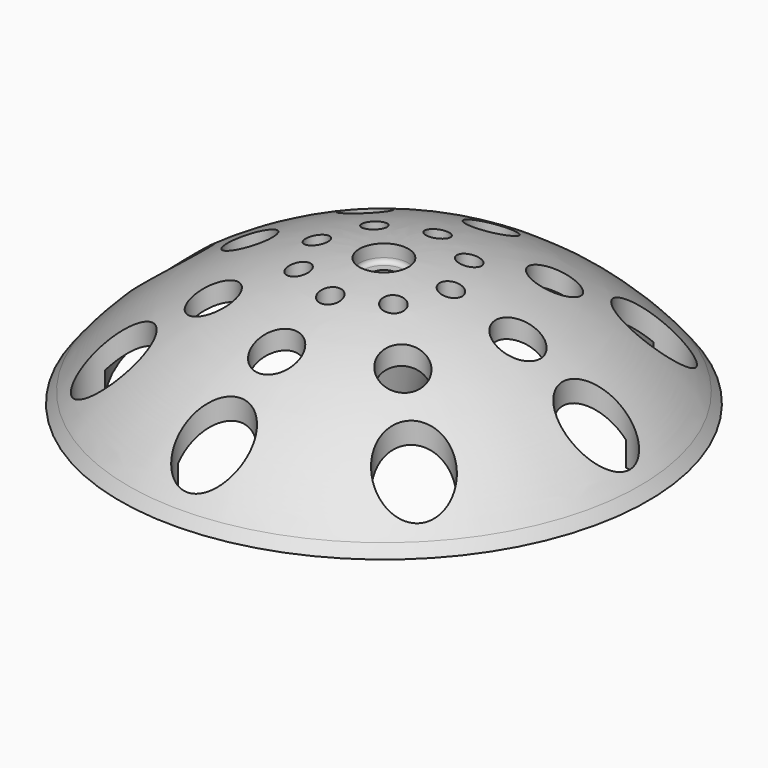
from build123d import *

# Parameters (mm, degrees)
F2_R     = 7.5
F2_R_2   = 5
F2_R_3   = 2.5
F3_DEPTH = 100


with BuildPart() as f1:
    # F0 (on Front) → F1 (revolve)
    with BuildSketch(Plane.XZ):
        with BuildLine():
            Line((-5.5, 72.000871), (-5.5, 74.798061))
            ThreePointArc((-5.5, 74.798061), (-34.003365, 66.848868), (-57.2135, 48.493457))
            Line((-57.2135, 48.493457), (-59.063293, 46.124777))
            Line((-59.063293, 46.124777), (-53.978039, 46.124777))
            Line((-53.978039, 46.124777), (-48.816968, 46.124777))
            Line((-48.816968, 46.124777), (-48.816968, 51.55606))
            ThreePointArc((-48.816968, 51.55606), (-32.506826, 63.122341), (-13.618646, 69.682539))
            Line((-13.618646, 69.682539), (-6.893129, 46.124777))
            Line((-6.893129, 46.124777), (-2.75, 46.124777))
            Line((-2.75, 46.124777), (-2.75, 64.941801))
            Line((-2.75, 64.941801), (-2.75, 71.000871))
            Line((-2.75, 71.000871), (-4.161734, 71.000871))
            Line((-4.161734, 71.000871), (-4.5, 71.000871))
            ThreePointArc((-4.5, 71.000871), (-5.207107, 71.293764), (-5.5, 72.000871))
        make_face()
    revolve(axis=Axis((0, 0, 70), (0, 0, 1)))

    # F2 (on Top) → F3 (cut)
    with BuildSketch(Plane.XY):
        with Locations((-33.587572, -33.587572)):
            Circle(F2_R)
        with Locations((-33.587572, 33.587572)):
            Circle(F2_R)
        with Locations((-47.5, 0)):
            Circle(F2_R)
        with Locations((0, 47.5)):
            Circle(F2_R)
        with Locations((0, 30)):
            Circle(F2_R_2)
        with Locations((-21.213203, 21.213203)):
            Circle(F2_R_2)
        with Locations((-30, 0)):
            Circle(F2_R_2)
        with Locations((21.213203, 21.213203)):
            Circle(F2_R_2)
        with Locations((33.587572, 33.587572)):
            Circle(F2_R)
        with Locations((30, 0)):
            Circle(F2_R_2)
        with Locations((47.5, 0)):
            Circle(F2_R)
        with Locations((33.587572, -33.587572)):
            Circle(F2_R)
        with Locations((21.213203, -21.213203)):
            Circle(F2_R_2)
        with Locations((0, -47.5)):
            Circle(F2_R)
        with Locations((0, -30)):
            Circle(F2_R_2)
        with Locations((-21.213203, -21.213203)):
            Circle(F2_R_2)
        with Locations((-10.606602, -10.606602)):
            Circle(F2_R_3)
        with Locations((-15, 0)):
            Circle(F2_R_3)
        with Locations((-10.606602, 10.606602)):
            Circle(F2_R_3)
        with Locations((0, 15)):
            Circle(F2_R_3)
        with Locations((10.606602, 10.606602)):
            Circle(F2_R_3)
        with Locations((15, 0)):
            Circle(F2_R_3)
        with Locations((10.606602, -10.606602)):
            Circle(F2_R_3)
        with Locations((0, -15)):
            Circle(F2_R_3)
    extrude(amount=F3_DEPTH, mode=Mode.SUBTRACT)


solid = f1.part
